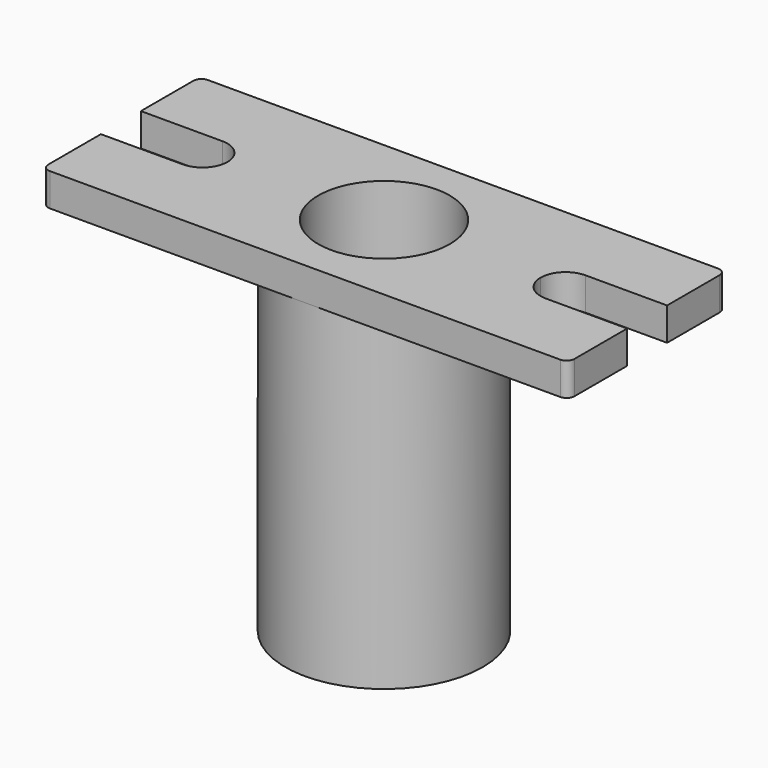
from build123d import *

# Parameters (mm, degrees)
F1_DEPTH = 6.35
F2_R     = 12.7
F3_DEPTH = 63.5
F4_R     = 12.7
F5_DEPTH = 63.5
F6_R     = 12.7
F6_R_2   = 4.7625
F7_DEPTH = 6.35


with BuildPart() as f1:
    # F0 (on Top) → F1 (new body)
    with BuildSketch(Plane.XY):
        with BuildLine():
            Line((0, 19.05), (-49.276, 19.05))
            ThreePointArc((-49.276, 19.05), (-50.3536307345, 18.6036307345), (-50.8, 17.526))
            Line((-50.8, 17.526), (-50.8, 4.826))
            Line((-50.8, 4.826), (-35.052, 4.826))
            ThreePointArc((-35.052, 4.826), (-31.639502674, 3.412497326), (-30.226, 0))
            ThreePointArc((-30.226, 0), (-31.639502674, -3.412497326), (-35.052, -4.826))
            Line((-35.052, -4.826), (-50.8, -4.826))
            Line((-50.8, -4.826), (-50.8, -17.526))
            ThreePointArc((-50.8, -17.526), (-50.3536307345, -18.6036307345), (-49.276, -19.05))
            Line((-49.276, -19.05), (0, -19.05))
            Line((0, -19.05), (49.276, -19.05))
            ThreePointArc((49.276, -19.05), (50.3536307345, -18.6036307345), (50.8, -17.526))
            Line((50.8, -17.526), (50.8, -4.826))
            Line((50.8, -4.826), (35.052, -4.826))
            ThreePointArc((35.052, -4.826), (31.639502674, -3.412497326), (30.226, 0))
            ThreePointArc((30.226, 0), (31.639502674, 3.412497326), (35.052, 4.826))
            Line((35.052, 4.826), (50.8, 4.826))
            Line((50.8, 4.826), (50.8, 17.526))
            ThreePointArc((50.8, 17.526), (50.3536307345, 18.6036307345), (49.276, 19.05))
            Line((49.276, 19.05), (0, 19.05))
        make_face()
    extrude(amount=F1_DEPTH)

    # F2 (on face) → F3 (cut)
    with BuildSketch(Plane.XY.offset(6.35)):
        Circle(F2_R)
    extrude(amount=-F3_DEPTH, mode=Mode.SUBTRACT)

    # F4 (on face) → F5 (join)
    with BuildSketch(Plane(origin=(0, 0, 0), x_dir=(1, 0, 0), z_dir=(0, 0, -1))):
        with BuildLine():
            ThreePointArc((-1e-10, -19.05), (13.4703841816, -13.4703841816), (19.05, 0))
            ThreePointArc((19.05, 0), (13.4703841624, 13.4703842008), (-5.43e-08, 19.05))
            ThreePointArc((-5.43e-08, 19.05), (-19.05, -2.71e-08), (-1e-10, -19.05))
        make_face()
        Circle(F4_R, mode=Mode.SUBTRACT)
    extrude(amount=F5_DEPTH)

    # F6 (on face) → F7 (join)
    with BuildSketch(Plane(origin=(0, 0, -63.5), x_dir=(1, 0, 0), z_dir=(0, 0, -1))):
        Circle(F6_R)
        Circle(F6_R_2, mode=Mode.SUBTRACT)
    extrude(amount=-F7_DEPTH)


solid = f1.part
